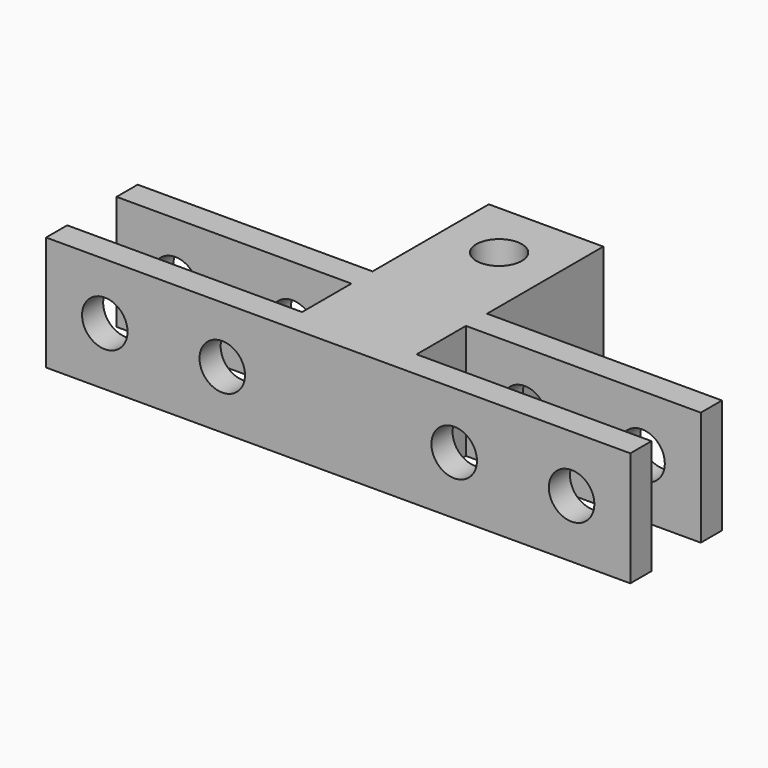
from build123d import *

# Parameters (mm, degrees)
PAD_DEPTH       = 7.8
SKETCH001_R     = 1.55
POCKET_DEPTH    = 17.701
SKETCH002_R     = 1.55
POCKET001_DEPTH = 7.801


with BuildPart() as part:
    # Sketch → Pad (new body)
    with BuildSketch(Plane.XY):
        Polygon((-3.9, 17.7), (3.9, 17.7), (3.9, 7.8), (19.9, 7.8), (19.9, 6), (3.9, 6), (3.9, 1.8), (19.9, 1.8), (19.9, 0), (-19.9, 0), (-19.9, 1.8), (-3.9, 1.8), (-3.9, 6), (-19.9, 6), (-19.9, 7.8), (-3.9, 7.8), align=None)
    extrude(amount=PAD_DEPTH)

    # Sketch001 (on Face11 of Pad) → Pocket (cut, through all)
    with BuildSketch(Plane.XZ):
        with Locations((-15.9, 3.95)):
            Circle(SKETCH001_R)
        with Locations((-7.9, 3.95)):
            Circle(SKETCH001_R)
        with Locations((7.9, 3.95)):
            Circle(SKETCH001_R)
        with Locations((15.9, 3.95)):
            Circle(SKETCH001_R)
    extrude(amount=-POCKET_DEPTH, mode=Mode.SUBTRACT)

    # Sketch002 (on Face4 of Pocket) → Pocket001 (cut, through all)
    with BuildSketch(Plane.XY.offset(7.8)):
        with Locations((0, 13.7)):
            Circle(SKETCH002_R)
    extrude(amount=-POCKET001_DEPTH, mode=Mode.SUBTRACT)


solid = part.part
